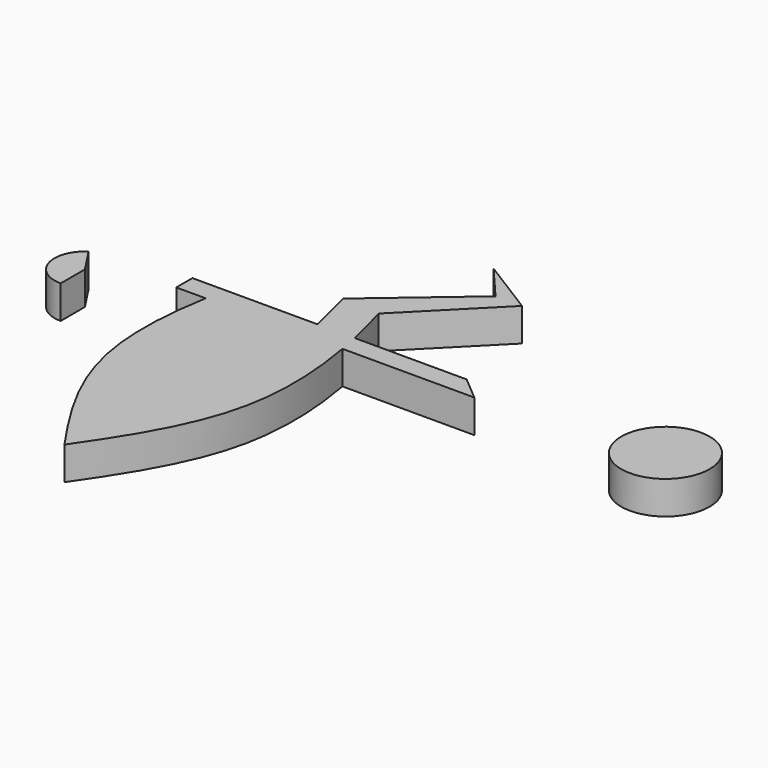
from build123d import *

# Parameters (mm, degrees)
F1_DEPTH = 9.525
F0_R     = 12.7


with BuildPart() as f1:
    # F0 (on Top) → F1 (new body)
    with BuildSketch(Plane.XY):
        with BuildLine():
            add(Edge.make_bspline(
                [(15.2706934092, 31.4622362133), (16.4966470738, 27.2431960745), (17.5880205026, 23.0191566811), (18.5030831742, 18.8199616969)],
                knots=[0, 0, 0, 0, 0.1189646058, 0.1189646058, 0.1189646058, 0.1189646058], degree=3))
            Line((15.2706934092, 31.4622362133), (38.1, 54.4833862709))
            Line((38.1, 54.4833862709), (21.7933514928, 64.6510570317))
            Line((21.7933514928, 64.6510570317), (30.5354431679, 54.4244606295))
            Line((30.5354431679, 54.4244606295), (4.5439931576, 32.2059599844))
            Line((4.5439931576, 32.2059599844), (7.8060968021, 18.8199616969))
            Line((7.8060968021, 18.8199616969), (18.5030831742, 18.8199616969))
        make_face()
        with BuildLine():
            Line((50.7233217359, 18.8199616969), (18.5030831742, 18.8199616969))
            add(Edge.make_bspline(
                [(18.5030831742, 18.8199616969), (18.9263009616, 16.8778280429), (19.311804544, 14.9410087961), (19.6554654145, 13.0124564661)],
                knots=[0.1189646058, 0.1189646058, 0.1189646058, 0.1189646058, 0.1739859052, 0.1739859052, 0.1739859052, 0.1739859052], degree=3))
            Line((19.6554654145, 13.0124564661), (57.5669445097, 13.0124564661))
            Line((57.5669445097, 13.0124564661), (50.7233217359, 18.8199616969))
        make_face()
        with BuildLine():
            add(Edge.make_bspline(
                [(18.5030831742, 18.8199616969), (18.9263009616, 16.8778280429), (19.311804544, 14.9410087961), (19.6554654145, 13.0124564661)],
                knots=[0.1189646058, 0.1189646058, 0.1189646058, 0.1189646058, 0.1739859052, 0.1739859052, 0.1739859052, 0.1739859052], degree=3))
            Line((18.5030831742, 18.8199616969), (7.8060968021, 18.8199616969))
            Line((7.8060968021, 18.8199616969), (-7.8060968021, 18.8199616969))
            Line((-7.8060968021, 18.8199616969), (-18.5030831742, 18.8199616969))
            add(Edge.make_bspline(
                [(-18.5030831742, 18.8199616969), (-18.9263009616, 16.8778280429), (-19.311804544, 14.9410087961), (-19.6554654145, 13.0124564661)],
                knots=[0.1189646058, 0.1189646058, 0.1189646058, 0.1189646058, 0.1739859052, 0.1739859052, 0.1739859052, 0.1739859052], degree=3))
            Line((-19.6554654145, 13.0124564661), (-9.2213580005, 13.0124564661))
            Line((-9.2213580005, 13.0124564661), (9.2213580005, 13.0124564661))
            Line((9.2213580005, 13.0124564661), (19.6554654145, 13.0124564661))
        make_face()
        with BuildLine():
            add(Edge.make_bspline(
                [(19.6554654145, 13.0124564661), (21.8180916964, 0.8762538526), (23.0243339677, -27.2953766692), (8.9446977687, -49.4163074898), (0, -62.3489429683)],
                knots=[0.1739859052, 0.1739859052, 0.1739859052, 0.1739859052, 0.520229887, 1, 1, 1, 1], degree=3))
            Line((19.6554654145, 13.0124564661), (9.2213580005, 13.0124564661))
            Line((9.2213580005, 13.0124564661), (-9.2213580005, 13.0124564661))
            Line((-9.2213580005, 13.0124564661), (-19.6554654145, 13.0124564661))
            add(Edge.make_bspline(
                [(-19.6554654145, 13.0124564661), (-21.8180916964, 0.8762538526), (-23.0243339677, -27.2953766692), (-8.9446977687, -49.4163074898), (0, -62.3489429683)],
                knots=[0.1739859052, 0.1739859052, 0.1739859052, 0.1739859052, 0.520229887, 1, 1, 1, 1], degree=3))
        make_face()
        with BuildLine():
            Line((-28.1332228333, 13.0124564661), (-19.6554654145, 13.0124564661))
            add(Edge.make_bspline(
                [(-18.5030831742, 18.8199616969), (-18.9263009616, 16.8778280429), (-19.311804544, 14.9410087961), (-19.6554654145, 13.0124564661)],
                knots=[0.1189646058, 0.1189646058, 0.1189646058, 0.1189646058, 0.1739859052, 0.1739859052, 0.1739859052, 0.1739859052], degree=3))
            Line((-18.5030831742, 18.8199616969), (-28.1332228333, 18.8199616969))
            Line((-28.1332228333, 18.8199616969), (-28.1332228333, 13.0124564661))
        make_face()
    extrude(amount=F1_DEPTH)


with BuildPart() as f1b:
    # F0 (on Top) → F1, piece 2 (new body)
    with BuildSketch(Plane.XY):
        with BuildLine():
            Line((-49.6290139854, 7.0495842956), (-54.4057596778, 14.3488846976))
            ThreePointArc((-54.4057596778, 14.3488846976), (-57.9887849976, 4.557333427), (-49.6290139854, -1.673780065))
            Line((-49.6290139854, -1.673780065), (-49.6290139854, 7.0495842956))
        make_face()
    extrude(amount=F1_DEPTH)


with BuildPart() as f1c:
    # F0 (on Top) → F1, piece 3 (new body)
    with BuildSketch(Plane.XY):
        with Locations((107.8733217359, 18.8199616969)):
            Circle(F0_R)
    extrude(amount=F1_DEPTH)


solid = Compound([f1.part, f1b.part, f1c.part])
